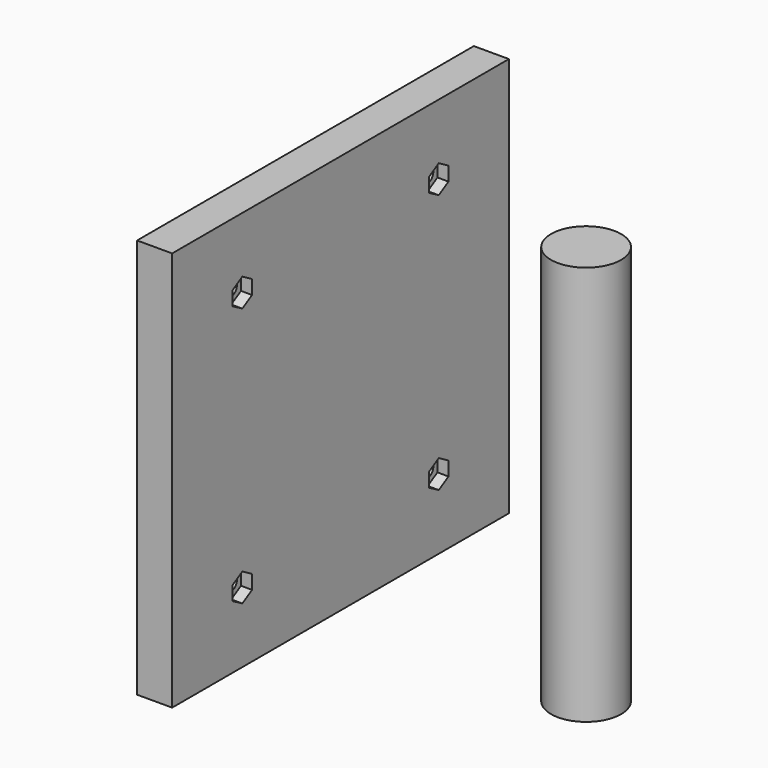
from build123d import *

# Parameters (mm, degrees)
EXTRUDE004_DEPTH = 3.15
FACE003_R        = 2
EXTRUDE003_DEPTH = 10
SKETCH001_R      = 10
SKETCH001_W      = 10
SKETCH001_H      = 120
EXTRUDE001_DEPTH = 114


with BuildPart() as extrude004:
    # Face004 → Extrude004 (new body)
    with BuildSketch(Plane(origin=(10, 95, 28), x_dir=(0, -1, 0), z_dir=(1, 0, 0))):
        Polygon((-3.475, -2.006292), (0, -4.012584), (3.475, -2.006292), (3.475, 2.006292), (0, 4.012584), (-3.475, 2.006292), align=None)
        Polygon((66.525, -2.006292), (70, -4.012584), (73.475, -2.006292), (73.475, 2.006292), (70, 4.012584), (66.525, 2.006292), align=None)
        Polygon((66.525, -76.006292), (70, -78.012584), (73.475, -76.006292), (73.475, -71.993708), (70, -69.987416), (66.525, -71.993708), align=None)
        Polygon((-3.475, -76.006292), (0, -78.012584), (3.475, -76.006292), (3.475, -71.993708), (0, -69.987416), (-3.475, -71.993708), align=None)
    extrude(amount=-EXTRUDE004_DEPTH)


with BuildPart() as extrude003:
    # Face003 → Extrude003 (new body)
    with BuildSketch(Plane(origin=(10, 95, 102), x_dir=(0, -1, 0), z_dir=(1, 0, 0))):
        Circle(FACE003_R)
        with Locations((70, 0)):
            Circle(FACE003_R)
        with Locations((70, 74)):
            Circle(FACE003_R)
        with Locations((0, 74)):
            Circle(FACE003_R)
    extrude(amount=-EXTRUDE003_DEPTH)


with BuildPart() as cut001:
    # Sketch001 (on Face12 of Extrude) → Extrude001 (new body)
    with BuildSketch(Plane.XY.offset(8)):
        with Locations((80, 60)):
            Circle(SKETCH001_R)
        with Locations((5, 60)):
            Rectangle(SKETCH001_W, SKETCH001_H)
    extrude(amount=EXTRUDE001_DEPTH)

    # Cut: cut Extrude003
    add(extrude003.part, mode=Mode.SUBTRACT)

    # Cut001: cut Extrude004
    add(extrude004.part, mode=Mode.SUBTRACT)


solid = cut001.part
